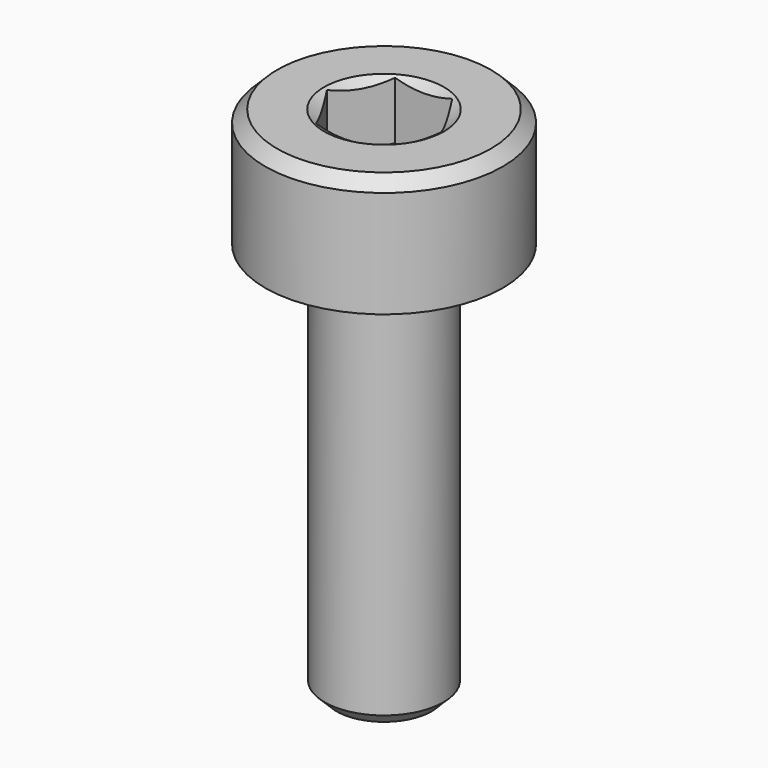
from build123d import *

# Parameters (mm, degrees)
F5_DEPTH = 1.5
F6_SIZE  = 0.3
F7_R     = 0.2


with BuildPart() as f1:
    # F0 (on Front) → F1 (revolve)
    with BuildSketch(Plane.XZ):
        Polygon((3, 3), (0, 3), (0, -10), (1.5, -10), (1.5, 0), (3, 0), align=None)
    revolve(axis=Axis((0, 0, -3.5), (0, 0, 1)))

    # F2 (on Front) → F3 (revolve, cut)
    with BuildSketch(Plane.XZ):
        Polygon((1.515544, 3), (0, 3), (0, 0.778312), (1.25, 1.5), (1.25, 2.846688), align=None)
    revolve(axis=Axis((0, 0, 1.889156), (0, 0, -1)), mode=Mode.SUBTRACT)

    # F4 (on face) → F5 (cut)
    with BuildSketch(Plane.XY.offset(3)):
        Polygon((1.443376, 0), (0.721688, 1.25), (-0.721688, 1.25), (-1.443376, 0), (-0.721688, -1.25), (0.721688, -1.25), align=None)
    extrude(amount=-F5_DEPTH, mode=Mode.SUBTRACT)

    # F6
    f6_edges = [f1.edges().sort_by_distance(p)[0] for p in [
        (-3, 0, 3),
        (-1.5, 0, -10),
    ]]
    chamfer(f6_edges, length=F6_SIZE)

    # F7
    f7_edges = [f1.edges().sort_by_distance(p)[0] for p in [
        (-1.5, 0, 0),
    ]]
    fillet(f7_edges, radius=F7_R)


solid = f1.part
